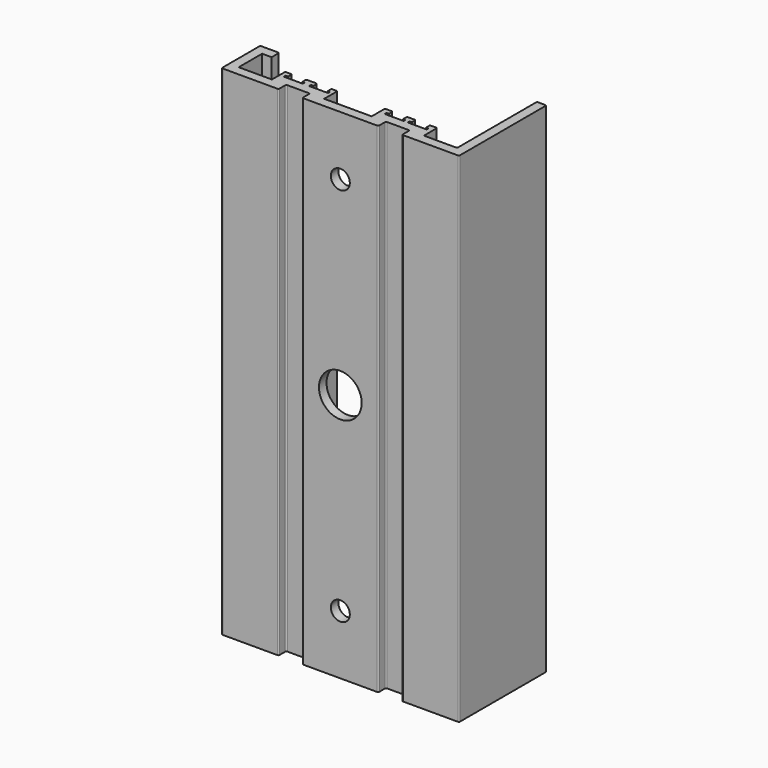
from build123d import *

# Parameters (mm, degrees)
F1_DEPTH = 105
F2_R     = 0.25
F3_R     = 2
F3_R_2   = 4.5
F4_DEPTH = 25


with BuildPart() as f1:
    # F0 (on Top) → F1 (new body)
    with BuildSketch(Plane.XY):
        Polygon((-30.083321, 4.672126), (-30.083321, -5.5), (-18.083321, -5.5), (-18.083321, -3.5), (-13.083321, -3.5), (-13.083321, -5.5), (2.916679, -5.5), (2.916679, -3.5), (7.916679, -3.5), (7.916679, -5.5), (19.916679, -5.5), (19.916679, 17.5), (17.916679, 17.5), (17.916679, -3.5), (10.916679, -3.5), (10.916679, 0), (9.393476, 0), (9.393476, -1), (9.893476, -1), (9.893476, -1.5), (5.893476, -1.5), (5.893476, -1), (6.393476, -1), (6.393476, 0), (4.561732, 0), (4.561732, -1), (5.061732, -1), (5.061732, -1.5), (1.061732, -1.5), (1.061732, -1), (1.561732, -1), (1.561732, 0), (-0.083321, 0), (-0.083321, -3.5), (-10.083321, -3.5), (-10.083321, 0), (-11.341457, 0), (-11.341457, -1), (-10.841457, -1), (-10.841457, -1.5), (-14.841457, -1.5), (-14.841457, -1), (-14.341457, -1), (-14.341457, 0), (-16.666559, 0), (-16.666559, -1), (-16.166559, -1), (-16.166559, -1.5), (-20.166559, -1.5), (-20.166559, -1), (-19.666559, -1), (-19.666559, 0), (-21.083321, 0), (-21.083321, -3.5), (-28.083321, -3.5), (-28.083321, 2.672126), (-26.083321, 2.672126), (-26.083321, 4.672126), align=None)
    extrude(amount=F1_DEPTH)

    # F2
    f2_edges = [f1.edges().sort_by_distance(p)[0] for p in [
        (-21.083321, 0, 52.5),
        (-30.083321, 4.672126, 52.5),
        (-26.083321, 4.672126, 52.5),
        (-19.666559, 0, 52.5),
        (-16.666559, 0, 52.5),
        (-14.341457, 0, 52.5),
        (-11.341457, 0, 52.5),
        (-10.083321, 0, 52.5),
        (-0.083321, 0, 52.5),
        (1.561732, 0, 52.5),
        (4.561732, 0, 52.5),
        (6.393476, 0, 52.5),
        (9.393476, 0, 52.5),
        (10.916679, 0, 52.5),
        (17.916679, 17.5, 52.5),
        (-30.083321, -5.5, 52.5),
        (19.916679, 17.5, 52.5),
        (10.916679, -3.5, 52.5),
        (17.916679, -3.5, 52.5),
        (19.916679, -5.5, 52.5),
        (2.916679, -5.5, 52.5),
        (7.916679, -5.5, 52.5),
        (-13.083321, -5.5, 52.5),
        (-18.083321, -5.5, 52.5),
        (-18.083321, -3.5, 52.5),
        (-13.083321, -3.5, 52.5),
        (2.916679, -3.5, 52.5),
        (7.916679, -3.5, 52.5),
    ]]
    fillet(f2_edges, radius=F2_R)

    # F3 (on face) → F4 (cut)
    with BuildSketch(Plane(origin=(0, -3.5, 0), x_dir=(-1, 0, 0), z_dir=(0, 1, 0))):
        with Locations((5.083321, 92.5)):
            Circle(F3_R)
        with Locations((5.083321, 12.5)):
            Circle(F3_R)
        with Locations((5.083321, 52.5)):
            Circle(F3_R_2)
    extrude(amount=-F4_DEPTH, mode=Mode.SUBTRACT)


solid = f1.part
